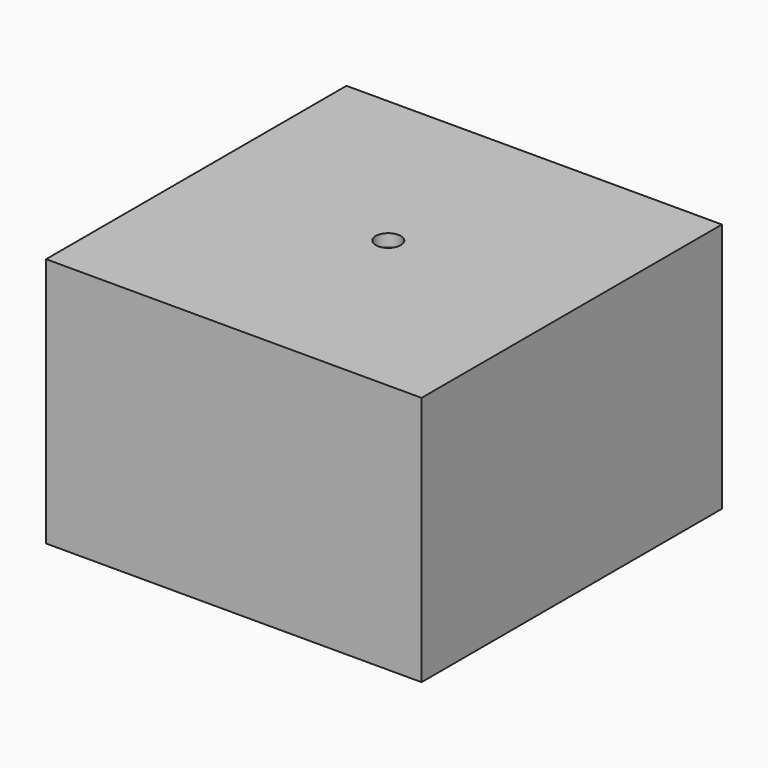
from build123d import *

# Parameters (mm, degrees)
CYLINDER002_R     = 1
CYLINDER002_DEPTH = 1
BOX006_W          = 3
BOX006_H          = 3
BOX006_DEPTH      = 2
BOX005_W          = 3
BOX005_H          = 3
BOX005_DEPTH      = 2
BOX003_W          = 3
BOX003_H          = 3
BOX003_DEPTH      = 2
BOX004_W          = 3
BOX004_H          = 3
BOX004_DEPTH      = 2
BOX002_W          = 3
BOX002_H          = 3
BOX002_DEPTH      = 2
CYLINDER_R        = 7
CYLINDER_DEPTH    = 2
BOX_W             = 26
BOX_H             = 26
BOX_DEPTH         = 17
BOX001_W          = 30
BOX001_H          = 30
BOX001_DEPTH      = 20
CYLINDER001_R     = 3
CYLINDER001_DEPTH = 2
BOX010_W          = 6
BOX010_H          = 2
BOX010_DEPTH      = 3.4
BOX008_W          = 4
BOX008_H          = 4
BOX008_DEPTH      = 3.4
BOX007_W          = 26
BOX007_H          = 1.8
BOX007_DEPTH      = 3.4
BOX009_W          = 6
BOX009_H          = 2
BOX009_DEPTH      = 3.4
BOX011_W          = 6
BOX011_H          = 2
BOX011_DEPTH      = 3.4


with BuildPart() as obj1:
    # Cylinder002 → Cylinder002 (new body)
    with BuildSketch(Plane(origin=(0.1, 0.3, 9), x_dir=(1, 0, 0), z_dir=(0, 0, 1))):
        Circle(CYLINDER002_R)
    extrude(amount=CYLINDER002_DEPTH)


with BuildPart() as l5:
    # Box006 → Box006 (new body)
    with BuildSketch(Plane(origin=(7.67, 8.11, 7), x_dir=(1, 0, 0), z_dir=(0, 0, 1))):
        with Locations((1.5, 1.5)):
            Rectangle(BOX006_W, BOX006_H)
    extrude(amount=BOX006_DEPTH)


with BuildPart() as l4:
    # Box005 → Box005 (new body)
    with BuildSketch(Plane(origin=(3.1, 8.11, 7), x_dir=(1, 0, 0), z_dir=(0, 0, 1))):
        with Locations((1.5, 1.5)):
            Rectangle(BOX005_W, BOX005_H)
    extrude(amount=BOX005_DEPTH)


with BuildPart() as l2:
    # Box003 → Box003 (new body)
    with BuildSketch(Plane(origin=(-6.04, 8.11, 7), x_dir=(1, 0, 0), z_dir=(0, 0, 1))):
        with Locations((1.5, 1.5)):
            Rectangle(BOX003_W, BOX003_H)
    extrude(amount=BOX003_DEPTH)


with BuildPart() as l3:
    # Box004 → Box004 (new body)
    with BuildSketch(Plane(origin=(-1.47, 8.11, 7), x_dir=(1, 0, 0), z_dir=(0, 0, 1))):
        with Locations((1.5, 1.5)):
            Rectangle(BOX004_W, BOX004_H)
    extrude(amount=BOX004_DEPTH)


with BuildPart() as fusion:
    # Box002 → Box002 (new body)
    with BuildSketch(Plane(origin=(-10.61, 8.11, 7), x_dir=(1, 0, 0), z_dir=(0, 0, 1))):
        with Locations((1.5, 1.5)):
            Rectangle(BOX002_W, BOX002_H)
    extrude(amount=BOX002_DEPTH)

    # Fusion: union L5, L4, L2, L3
    add(l5.part)
    add(l4.part)
    add(l2.part)
    add(l3.part)


with BuildPart() as but:
    # Cylinder → Cylinder (new body)
    with BuildSketch(Plane(origin=(0.1, 0.3, 7), x_dir=(1, 0, 0), z_dir=(0, 0, 1))):
        Circle(CYLINDER_R)
    extrude(amount=CYLINDER_DEPTH)


with BuildPart() as maininside:
    # Box → Box (new body)
    with BuildSketch(Plane(origin=(-13, -13, -10), x_dir=(1, 0, 0), z_dir=(0, 0, 1))):
        with Locations((13, 13)):
            Rectangle(BOX_W, BOX_H)
    extrude(amount=BOX_DEPTH)


with BuildPart() as cut002:
    # Box001 → Box001 (new body)
    with BuildSketch(Plane(origin=(-15, -15, -10), x_dir=(1, 0, 0), z_dir=(0, 0, 1))):
        with Locations((15, 15)):
            Rectangle(BOX001_W, BOX001_H)
    extrude(amount=BOX001_DEPTH)

    # Cut: cut MainInside
    add(maininside.part, mode=Mode.SUBTRACT)

    # Cut001: cut But
    add(but.part, mode=Mode.SUBTRACT)

    # Cut002: cut Fusion
    add(fusion.part, mode=Mode.SUBTRACT)


with BuildPart() as cut003:
    # Cylinder001 → Cylinder001 (new body)
    with BuildSketch(Plane(origin=(0.1, 0.3, 8), x_dir=(1, 0, 0), z_dir=(0, 0, 1))):
        Circle(CYLINDER001_R)
    extrude(amount=CYLINDER001_DEPTH)

    # Fusion001: union Cut002
    add(cut002.part)

    # Cut003: cut obj1
    add(obj1.part, mode=Mode.SUBTRACT)


with BuildPart() as obj2:
    # Box010 → Box010 (new body)
    with BuildSketch(Plane(origin=(-13, 5.5, 3.6), x_dir=(1, 0, 0), z_dir=(0, 0, 1))):
        with Locations((3, 1)):
            Rectangle(BOX010_W, BOX010_H)
    extrude(amount=BOX010_DEPTH)


with BuildPart() as obj3:
    # Box008 → Box008 (new body)
    with BuildSketch(Plane(origin=(8, 0, 3.6), x_dir=(1, 0, 0), z_dir=(0, 0, 1))):
        with Locations((2, 2)):
            Rectangle(BOX008_W, BOX008_H)
    extrude(amount=BOX008_DEPTH)


with BuildPart() as obj4:
    # Box007 → Box007 (new body)
    with BuildSketch(Plane(origin=(-13, 11.2, 3.6), x_dir=(1, 0, 0), z_dir=(0, 0, 1))):
        with Locations((13, 0.9)):
            Rectangle(BOX007_W, BOX007_H)
    extrude(amount=BOX007_DEPTH)


with BuildPart() as obj5:
    # Box009 → Box009 (new body)
    with BuildSketch(Plane(origin=(-13, -4, 3.6), x_dir=(1, 0, 0), z_dir=(0, 0, 1))):
        with Locations((3, 1)):
            Rectangle(BOX009_W, BOX009_H)
    extrude(amount=BOX009_DEPTH)


with BuildPart() as fusion003:
    # Box011 → Box011 (new body)
    with BuildSketch(Plane(origin=(7, -13, 3.6), x_dir=(1, 0, 0), z_dir=(0, 0, 1))):
        with Locations((3, 1)):
            Rectangle(BOX011_W, BOX011_H)
    extrude(amount=BOX011_DEPTH)

    # Fusion002: union obj2, obj3, obj4, obj5
    add(obj2.part)
    add(obj3.part)
    add(obj4.part)
    add(obj5.part)

    # Fusion003: union Cut003
    add(cut003.part)


solid = fusion003.part
